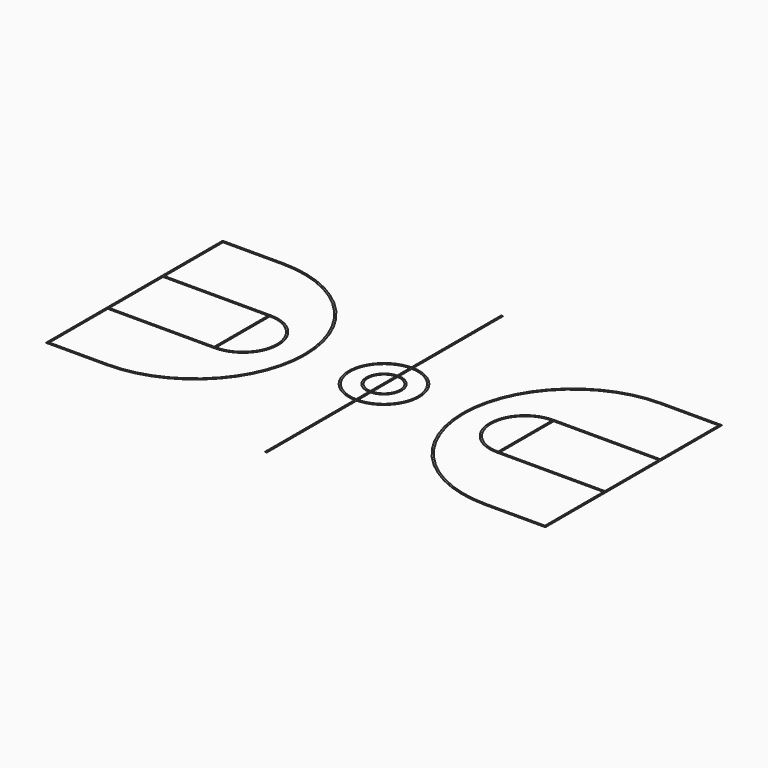
from build123d import *

# Parameters (mm, degrees)
F0_W     = 254
F0_H     = 7.62
F0_W_2   = 7.62
F0_H_2   = 289.56
F0_W_3   = 452.12
F1_DEPTH = 0.762


with BuildPart() as f1:
    # F0 (on Top) → F1 (new body)
    with BuildSketch(Plane.XY):
        with BuildLine():
            Line((-1066.8, -467.36), (-1066.8, -474.98))
            Line((-1066.8, -474.98), (-812.8, -474.98))
            ThreePointArc((-812.8, -474.98), (-337.82, 0), (-812.8, 474.98))
            Line((-812.8, 474.98), (-812.8, 467.36))
            ThreePointArc((-812.8, 467.36), (-345.44, 0), (-812.8, -467.36))
            Line((-812.8, -467.36), (-1066.8, -467.36))
        make_face()
        with Locations((-939.8, 471.17)):
            Rectangle(F0_W, F0_H)
        with Locations((-610.87, 0)):
            Rectangle(F0_W_2, F0_H_2)
        with Locations((-840.74, 148.59)):
            Rectangle(F0_W_3, F0_H)
        with Locations((-610.87, 148.59)):
            Rectangle(F0_W_2, F0_H)
        with BuildLine():
            Line((-607.06, -144.78), (-607.06, -152.4))
            ThreePointArc((-607.06, -152.4), (-454.66, 0), (-607.06, 152.4))
            Line((-607.06, 152.4), (-607.06, 144.78))
            ThreePointArc((-607.06, 144.78), (-462.28, 0), (-607.06, -144.78))
        make_face()
        with Locations((-840.74, -148.59)):
            Rectangle(F0_W_3, F0_H)
        with Locations((-610.87, -148.59)):
            Rectangle(F0_W_2, F0_H)
        Polygon((-1074.42, -474.98), (-1066.8, -474.98), (-1066.8, -467.36), (-1066.8, -152.4), (-1066.8, -144.78), (-1066.8, 144.78), (-1066.8, 152.4), (-1066.8, 467.36), (-1066.8, 474.98), (-1074.42, 474.98), align=None)
    extrude(amount=F1_DEPTH)


with BuildPart() as f1b:
    # F0 (on Top) → F1, piece 2 (new body)
    with BuildSketch(Plane.XY):
        with BuildLine():
            ThreePointArc((-3.81, 76.1046903942), (-76.2, 0), (-3.81, -76.1046903942))
            Line((-3.81, -76.1046903942), (-3.81, -68.4740848789))
            ThreePointArc((-3.81, -68.4740848789), (-68.58, 0), (-3.81, 68.4740848789))
            Line((-3.81, 68.4740848789), (-3.81, 76.1046903942))
        make_face()
        with BuildLine():
            Line((3.81, -68.4740848789), (3.81, -76.1046903942))
            ThreePointArc((3.81, -76.1046903942), (55.212145403, -52.5172257455), (76.2, 0))
            ThreePointArc((76.2, 0), (55.212145403, 52.5172257455), (3.81, 76.1046903942))
            Line((3.81, 76.1046903942), (3.81, 68.4740848789))
            ThreePointArc((3.81, 68.4740848789), (49.8222149247, 47.1270973008), (68.58, 0))
            ThreePointArc((68.58, 0), (49.8222149247, -47.1270973008), (3.81, -68.4740848789))
        make_face()
        with BuildLine():
            ThreePointArc((3.81, 76.1046903942), (1.9055959646, 76.176168872), (0, 76.2))
            Line((0, 76.2), (0, 68.58))
            ThreePointArc((0, 68.58), (1.9057359479, 68.553516106), (3.81, 68.4740848789))
            Line((3.81, 68.4740848789), (3.81, 76.1046903942))
        make_face()
        with BuildLine():
            ThreePointArc((0, 76.2), (-1.9055959646, 76.176168872), (-3.81, 76.1046903942))
            Line((-3.81, 76.1046903942), (-3.81, 68.4740848789))
            ThreePointArc((-3.81, 68.4740848789), (-1.9057359479, 68.553516106), (0, 68.58))
            Line((0, 68.58), (0, 76.2))
        make_face()
        with BuildLine():
            ThreePointArc((-3.81, 152.3523675563), (-152.4, 0), (-3.81, -152.3523675563))
            Line((-3.81, -152.3523675563), (-3.81, -144.7298597388))
            ThreePointArc((-3.81, -144.7298597388), (-144.78, 0), (-3.81, 144.7298597388))
            Line((-3.81, 144.7298597388), (-3.81, 152.3523675563))
        make_face()
        with BuildLine():
            ThreePointArc((0, 152.4), (-1.9051488688, 152.3880914238), (-3.81, 152.3523675563))
            Line((-3.81, 152.3523675563), (-3.81, 144.7298597388))
            ThreePointArc((-3.81, 144.7298597388), (-1.9051649565, 144.767464392), (0, 144.78))
            Line((0, 144.78), (0, 152.4))
        make_face()
        with BuildLine():
            ThreePointArc((3.81, 152.3523675563), (1.9051488688, 152.3880914238), (0, 152.4))
            Line((0, 152.4), (0, 144.78))
            ThreePointArc((0, 144.78), (1.9051649565, 144.767464392), (3.81, 144.7298597388))
            Line((3.81, 144.7298597388), (3.81, 152.3523675563))
        make_face()
        with BuildLine():
            Line((3.81, -144.7298597388), (3.81, -152.3523675563))
            ThreePointArc((3.81, -152.3523675563), (109.1017965022, -106.4075091335), (152.4, 0))
            ThreePointArc((152.4, 0), (109.1017965022, 106.4075091335), (3.81, 152.3523675563))
            Line((3.81, 152.3523675563), (3.81, 144.7298597388))
            ThreePointArc((3.81, 144.7298597388), (103.7132108268, 101.0189007067), (144.78, 0))
            ThreePointArc((144.78, 0), (103.7132108268, -101.0189007067), (3.81, -144.7298597388))
        make_face()
        with BuildLine():
            Line((-3.81, -68.4740848789), (-3.81, -76.1046903942))
            ThreePointArc((-3.81, -76.1046903942), (-1.9055959646, -76.176168872), (0, -76.2))
            Line((0, -76.2), (0, -68.58))
            ThreePointArc((0, -68.58), (-1.9057359479, -68.553516106), (-3.81, -68.4740848789))
        make_face()
        with BuildLine():
            Line((0, -68.58), (0, -76.2))
            ThreePointArc((0, -76.2), (1.9055959646, -76.176168872), (3.81, -76.1046903942))
            Line((3.81, -76.1046903942), (3.81, -68.4740848789))
            ThreePointArc((3.81, -68.4740848789), (1.9057359479, -68.553516106), (0, -68.58))
        make_face()
        with BuildLine():
            Line((-3.81, -144.7298597388), (-3.81, -152.3523675563))
            ThreePointArc((-3.81, -152.3523675563), (-1.9051488688, -152.3880914238), (0, -152.4))
            Line((0, -152.4), (0, -144.78))
            ThreePointArc((0, -144.78), (-1.9051649565, -144.767464392), (-3.81, -144.7298597388))
        make_face()
        with BuildLine():
            Line((0, -144.78), (0, -152.4))
            ThreePointArc((0, -152.4), (1.9051488688, -152.3880914238), (3.81, -152.3523675563))
            Line((3.81, -152.3523675563), (3.81, -144.7298597388))
            ThreePointArc((3.81, -144.7298597388), (1.9051649565, -144.767464392), (0, -144.78))
        make_face()
        with BuildLine():
            Line((-3.81, 635), (-3.81, 152.3523675563))
            ThreePointArc((-3.81, 152.3523675563), (-1.9051488688, 152.3880914238), (0, 152.4))
            Line((0, 152.4), (0, 635))
            Line((0, 635), (-3.81, 635))
        make_face()
        with BuildLine():
            Line((0, 635), (0, 152.4))
            ThreePointArc((0, 152.4), (1.9051488688, 152.3880914238), (3.81, 152.3523675563))
            Line((3.81, 152.3523675563), (3.81, 635))
            Line((3.81, 635), (0, 635))
        make_face()
        with BuildLine():
            ThreePointArc((0, 144.78), (-1.9051649565, 144.767464392), (-3.81, 144.7298597388))
            Line((-3.81, 144.7298597388), (-3.81, 76.1046903942))
            ThreePointArc((-3.81, 76.1046903942), (-1.9055959646, 76.176168872), (0, 76.2))
            Line((0, 76.2), (0, 144.78))
        make_face()
        with BuildLine():
            ThreePointArc((3.81, 144.7298597388), (1.9051649565, 144.767464392), (0, 144.78))
            Line((0, 144.78), (0, 76.2))
            ThreePointArc((0, 76.2), (1.9055959646, 76.176168872), (3.81, 76.1046903942))
            Line((3.81, 76.1046903942), (3.81, 144.7298597388))
        make_face()
        with BuildLine():
            Line((-3.81, 68.4740848789), (-3.81, -68.4740848789))
            ThreePointArc((-3.81, -68.4740848789), (-1.9057359479, -68.553516106), (0, -68.58))
            Line((0, -68.58), (0, 68.58))
            ThreePointArc((0, 68.58), (-1.9057359479, 68.553516106), (-3.81, 68.4740848789))
        make_face()
        with BuildLine():
            Line((0, 68.58), (0, -68.58))
            ThreePointArc((0, -68.58), (1.9057359479, -68.553516106), (3.81, -68.4740848789))
            Line((3.81, -68.4740848789), (3.81, 68.4740848789))
            ThreePointArc((3.81, 68.4740848789), (1.9057359479, 68.553516106), (0, 68.58))
        make_face()
        with BuildLine():
            Line((-3.81, -76.1046903942), (-3.81, -144.7298597388))
            ThreePointArc((-3.81, -144.7298597388), (-1.9051649565, -144.767464392), (0, -144.78))
            Line((0, -144.78), (0, -76.2))
            ThreePointArc((0, -76.2), (-1.9055959646, -76.176168872), (-3.81, -76.1046903942))
        make_face()
        with BuildLine():
            Line((0, -76.2), (0, -144.78))
            ThreePointArc((0, -144.78), (1.9051649565, -144.767464392), (3.81, -144.7298597388))
            Line((3.81, -144.7298597388), (3.81, -76.1046903942))
            ThreePointArc((3.81, -76.1046903942), (1.9055959646, -76.176168872), (0, -76.2))
        make_face()
        with BuildLine():
            Line((-3.81, -152.3523675563), (-3.81, -635))
            Line((-3.81, -635), (0, -635))
            Line((0, -635), (0, -152.4))
            ThreePointArc((0, -152.4), (-1.9051488688, -152.3880914238), (-3.81, -152.3523675563))
        make_face()
        with BuildLine():
            Line((0, -152.4), (0, -635))
            Line((0, -635), (3.81, -635))
            Line((3.81, -635), (3.81, -152.3523675563))
            ThreePointArc((3.81, -152.3523675563), (1.9051488688, -152.3880914238), (0, -152.4))
        make_face()
    extrude(amount=F1_DEPTH)


with BuildPart() as f1c:
    # F0 (on Top) → F1, piece 3 (new body)
    with BuildSketch(Plane.XY):
        with BuildLine():
            Line((812.8, -474.98), (1066.8, -474.98))
            Line((1066.8, -474.98), (1066.8, -467.36))
            Line((1066.8, -467.36), (812.8, -467.36))
            ThreePointArc((812.8, -467.36), (345.44, 0), (812.8, 467.36))
            Line((812.8, 467.36), (1066.8, 467.36))
            Line((1066.8, 467.36), (1066.8, 474.98))
            Line((1066.8, 474.98), (812.8, 474.98))
            ThreePointArc((812.8, 474.98), (337.82, 0), (812.8, -474.98))
        make_face()
        with Locations((840.74, 148.59)):
            Rectangle(F0_W_3, F0_H)
        with Locations((610.87, 148.59)):
            Rectangle(F0_W_2, F0_H)
        with Locations((610.87, 0)):
            Rectangle(F0_W_2, F0_H_2)
        with BuildLine():
            ThreePointArc((607.06, 152.4), (454.66, 0), (607.06, -152.4))
            Line((607.06, -152.4), (607.06, -144.78))
            ThreePointArc((607.06, -144.78), (462.28, 0), (607.06, 144.78))
            Line((607.06, 144.78), (607.06, 152.4))
        make_face()
        with Locations((840.74, -148.59)):
            Rectangle(F0_W_3, F0_H)
        with Locations((610.87, -148.59)):
            Rectangle(F0_W_2, F0_H)
        Polygon((1066.8, -467.36), (1066.8, -474.98), (1074.42, -474.98), (1074.42, 474.98), (1066.8, 474.98), (1066.8, 467.36), (1066.8, 152.4), (1066.8, 144.78), (1066.8, -144.78), (1066.8, -152.4), align=None)
    extrude(amount=F1_DEPTH)


solid = Compound([f1.part, f1b.part, f1c.part])
